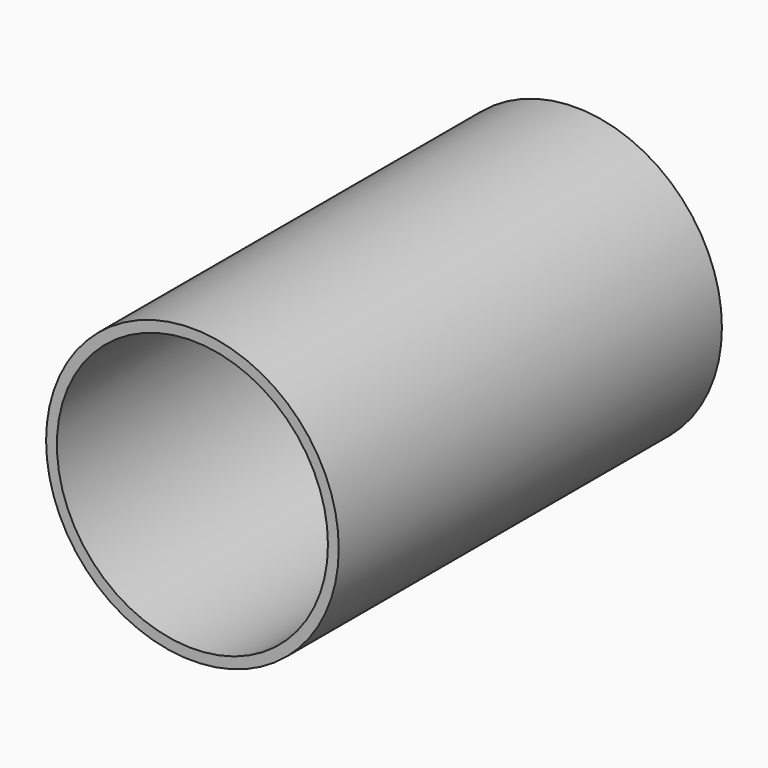
from build123d import *

# Parameters (mm, degrees)
F0_R     = 46.563605
F0_R_2   = 2.306584
F1_DEPTH = 152.4
F2_R     = 43.126284
F3_DEPTH = 139.7


with BuildPart() as f1:
    # F0 (on Front) → F1 (new body)
    with BuildSketch(Plane.XZ):
        Circle(F0_R)
        with Locations((-8.496637, 20.533539)):
            Circle(F0_R_2, mode=Mode.SUBTRACT)
    extrude(amount=F1_DEPTH)

    # F2 (on face) → F3 (cut)
    with BuildSketch(Plane.XZ.offset(152.4)):
        Circle(F2_R)
    extrude(amount=-F3_DEPTH, mode=Mode.SUBTRACT)


solid = f1.part
